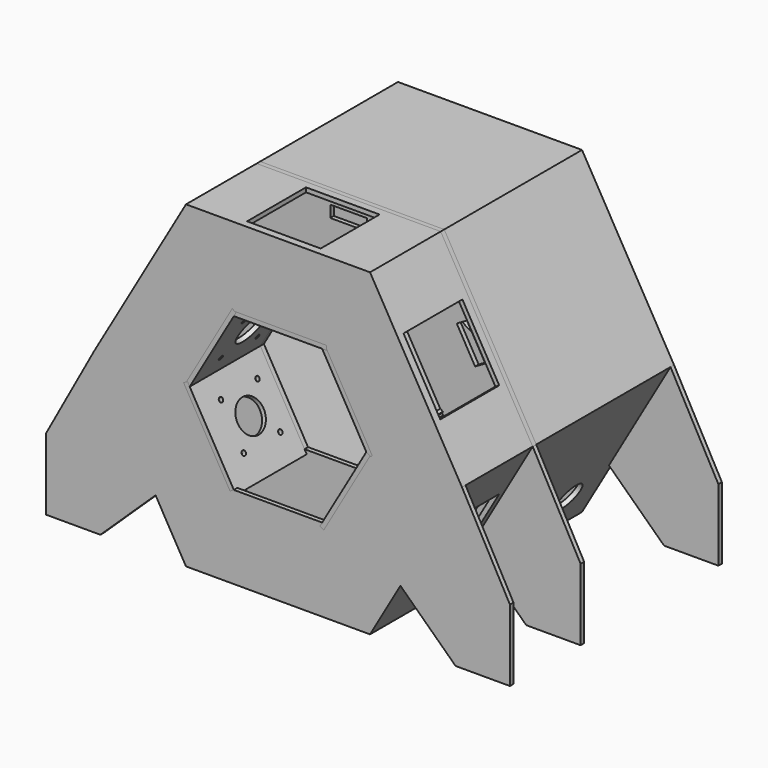
from build123d import *

# Parameters (mm, degrees)
F1_DEPTH  = 180
F2_T      = -3
F4_DEPTH  = 3
F6_D      = 50
F7_W      = 60
F7_H      = 3
F7_R      = 1.6
F7_R_2    = 11
F7_W_2    = 3
F7_H_2    = 60
F8_DEPTH  = 3
F10_COUNT = 6
F13_DEPTH = 3
F14_W     = 78
F14_H     = 51
F14_R     = 1.6
F14_W_2   = 80
F14_H_2   = 20
F15_DEPTH = 3
F17_D     = 20
F17_DEPTH = 3
F17_TIP   = 6.0086061903
F18_W     = 20
F18_H     = 20
F19_DEPTH = 3
F20_W     = 25
F20_H     = 8
F21_DEPTH = 3
F23_DEPTH = 3
F24_W     = 50
F24_H     = 50
F25_DEPTH = 3
F26_W     = 50
F26_H     = 50
F27_DEPTH = 3
F28_W     = 50
F28_H     = 50
F29_DEPTH = 3
F30_W     = 50
F30_H     = 50
F31_DEPTH = 3
F32_W     = 50
F32_H     = 50
F33_DEPTH = 3
F35_DEPTH = 3
F37_DEPTH = 3
F39_DEPTH = 3


with BuildPart() as f1:
    # F0 (on Front) → F1 (new body)
    with BuildSketch(Plane.XZ):
        Polygon((125, 0), (62.5, 108.2531754731), (-62.5, 108.2531754731), (-125, 0), (-62.5, -108.2531754731), (62.5, -108.2531754731), align=None)
    extrude(amount=F1_DEPTH)

    # F2
    f2_openings = [f1.faces().sort_by_distance(p)[0] for p in [
        (0, -180, 0),
    ]]
    offset(amount=F2_T, openings=f2_openings)

    # F3 (on face) → F4 (join)
    with BuildSketch(Plane.XZ.offset(180)):
        Polygon((60.7679491924, 105.2531754731), (-60.7679491924, 105.2531754731), (-121.5358983849, 0), (-60.7679491924, -105.2531754731), (60.7679491924, -105.2531754731), (121.5358983849, 0), align=None)
        Polygon((30, 51.9615242271), (60, 0), (30, -51.9615242271), (-30, -51.9615242271), (-60, 0), (-30, 51.9615242271), align=None, mode=Mode.SUBTRACT)
    extrude(amount=-F4_DEPTH)

    # F6 (through all)
    with Locations(Plane(origin=(0, 0, 0), x_dir=(-1, 0, 0), z_dir=(0, 1, 0))):
        with Locations((0, 0)):
            Hole(F6_D / 2)

    # F14 (on face) → F15 (cut, through all)
    with BuildSketch(Plane(origin=(-93.75, 0, 54.1265877365), x_dir=(0, -1, 0), z_dir=(-0.8660254038, 0, 0.5))):
        with Locations((57.1883003473, 16.5818184525)):
            Rectangle(F14_W, F14_H)
        with Locations((13.2883003473, -16.3181815475)):
            Circle(F14_R)
        with Locations((13.2883003473, 49.4818184525)):
            Circle(F14_R)
        with Locations((101.0883003473, 49.4818184525)):
            Circle(F14_R)
        with Locations((101.0883003473, -16.3181815475)):
            Circle(F14_R)
        with Locations((57.3729620934, -28.8003823906)):
            Rectangle(F14_W_2, F14_H_2)
    extrude(amount=-F15_DEPTH, mode=Mode.SUBTRACT)

    # F17
    with Locations(Plane(origin=(93.75, 0, -54.1265877365), x_dir=(0, 1, 0), z_dir=(0.8660254038, 0, -0.5))):
        with Locations((-30, -32.5)):
            Hole(F17_D / 2, depth=F17_DEPTH)
            with Locations((0, 0, -(F17_DEPTH + F17_TIP / 2))):  # 118° drill point
                Cone(0, F17_D / 2, F17_TIP, mode=Mode.SUBTRACT)

    # F18 (on face) → F19 (cut, through all)
    with BuildSketch(Plane(origin=(0, 0, 0), x_dir=(-1, 0, 0), z_dir=(0, 1, 0))):
        with Locations((-30.5, -93.2531754731)):
            Rectangle(F18_W, F18_H)
    extrude(amount=-F19_DEPTH, mode=Mode.SUBTRACT)

    # F22 (on face) → F23 (cut, through all)
    with BuildSketch(Plane(origin=(0, 0, -108.2531754731), x_dir=(1, 0, 0), z_dir=(0, 0, -1))):
        with BuildLine():
            Line((52.5, 10), (50.5, 10))
            ThreePointArc((50.5, 10), (52.5, 8), (54.5, 10))
            ThreePointArc((54.5, 10), (53.9142135624, 11.4142135624), (52.5, 12))
            Line((52.5, 12), (52.5, 10))
        make_face()
        with BuildLine():
            ThreePointArc((52.5, 12), (51.0857864376, 11.4142135624), (50.5, 10))
            Line((50.5, 10), (52.5, 10))
            Line((52.5, 10), (52.5, 12))
        make_face()
        with BuildLine():
            Line((-49.5, 12), (-49.5, 10))
            Line((-49.5, 10), (-47.5, 10))
            ThreePointArc((-47.5, 10), (-48.0857864376, 11.4142135624), (-49.5, 12))
        make_face()
        with BuildLine():
            Line((-47.5, 10), (-49.5, 10))
            Line((-49.5, 10), (-49.5, 12))
            ThreePointArc((-49.5, 12), (-50.9142135624, 8.5857864376), (-47.5, 10))
        make_face()
        with BuildLine():
            ThreePointArc((-47.5, 86), (-50.9142135624, 87.4142135624), (-49.5, 84))
            Line((-49.5, 84), (-49.5, 86))
            Line((-49.5, 86), (-47.5, 86))
        make_face()
        with BuildLine():
            Line((-49.5, 86), (-49.5, 84))
            ThreePointArc((-49.5, 84), (-48.0857864376, 84.5857864376), (-47.5, 86))
            Line((-47.5, 86), (-49.5, 86))
        make_face()
        with BuildLine():
            Line((52.5, 86), (52.5, 84))
            ThreePointArc((52.5, 84), (53.9142135624, 84.5857864376), (54.5, 86))
            ThreePointArc((54.5, 86), (52.5, 88), (50.5, 86))
            Line((50.5, 86), (52.5, 86))
        make_face()
        with BuildLine():
            ThreePointArc((50.5, 86), (51.0857864376, 84.5857864376), (52.5, 84))
            Line((52.5, 84), (52.5, 86))
            Line((52.5, 86), (50.5, 86))
        make_face()
    extrude(amount=-F23_DEPTH, mode=Mode.SUBTRACT)

    # F24 (on face) → F25 (cut, through all)
    with BuildSketch(Plane(origin=(-93.75, 0, -54.1265877365), x_dir=(0, -1, 0), z_dir=(-0.8660254038, 0, -0.5))):
        with Locations((150, 0)):
            Rectangle(F24_W, F24_H)
    extrude(amount=-F25_DEPTH, mode=Mode.SUBTRACT)

    # F26 (on face) → F27 (cut, through all)
    with BuildSketch(Plane(origin=(-93.75, 0, 54.1265877365), x_dir=(0, -1, 0), z_dir=(-0.8660254038, 0, 0.5))):
        with Locations((150, 0)):
            Rectangle(F26_W, F26_H)
    extrude(amount=-F27_DEPTH, mode=Mode.SUBTRACT)

    # F28 (on face) → F29 (cut, through all)
    with BuildSketch(Plane.XY.offset(108.2531754731)):
        with Locations((0, -150)):
            Rectangle(F28_W, F28_H)
    extrude(amount=-F29_DEPTH, mode=Mode.SUBTRACT)

    # F30 (on face) → F31 (cut, through all)
    with BuildSketch(Plane(origin=(93.75, 0, 54.1265877365), x_dir=(0, 1, 0), z_dir=(0.8660254038, 0, 0.5))):
        with Locations((-150, 0)):
            Rectangle(F30_W, F30_H)
    extrude(amount=-F31_DEPTH, mode=Mode.SUBTRACT)

    # F32 (on face) → F33 (cut, through all)
    with BuildSketch(Plane(origin=(93.75, 0, -54.1265877365), x_dir=(0, 1, 0), z_dir=(0.8660254038, 0, -0.5))):
        with Locations((-150, 0)):
            Rectangle(F32_W, F32_H)
    extrude(amount=-F33_DEPTH, mode=Mode.SUBTRACT)

    # F34 (on face) → F35 (join)
    with BuildSketch(Plane.XZ.offset(180)):
        Polygon((-120.6285208464, -108.2531754731), (-83.1755432282, -72.4420841277), (-125, 0), (-157.5307399034, -59.5309585333), (-157.5307399034, -108.2531754731), align=None)
        Polygon((125, 0), (83.1755432282, -72.4420841277), (120.6285208464, -108.2531754731), (157.5307399035, -108.2531754731), (157.5307399035, -59.5309585333), align=None)
    extrude(amount=-F35_DEPTH)

    # F36 (on face) → F37 (join)
    with BuildSketch(Plane(origin=(0, 0, 0), x_dir=(-1, 0, 0), z_dir=(0, 1, 0))):
        Polygon((-83.1755432282, -72.4420841277), (-125, 0), (-157.5307399035, -59.5309585333), (-157.5307399035, -108.2531754731), (-120.6285208464, -108.2531754731), align=None)
        Polygon((157.5307399034, -108.2531754731), (157.5307399034, -59.5309585333), (125, 0), (83.1755432282, -72.4420841277), (120.6285208464, -108.2531754731), align=None)
    extrude(amount=-F37_DEPTH)


with BuildPart() as f8:
    # F7 (on face) → F8 (new body)
    with BuildSketch(Plane(origin=(45, 0, 25.9807621135), x_dir=(0, -1, 0), z_dir=(-0.8660254038, 0, -0.5))):
        with Locations((147, 31.5)):
            Rectangle(F7_W, F7_H)
        Polygon((177, -30), (177, 30), (117, 30), (117, -30), (120, -30), align=None)
        with Locations((131.5, -15.5)):
            Circle(F7_R, mode=Mode.SUBTRACT)
        with Locations((162.5, -15.5)):
            Circle(F7_R, mode=Mode.SUBTRACT)
        with Locations((131.5, 15.5)):
            Circle(F7_R, mode=Mode.SUBTRACT)
        with Locations((147, 0)):
            Circle(F7_R_2, mode=Mode.SUBTRACT)
        with Locations((162.5, 15.5)):
            Circle(F7_R, mode=Mode.SUBTRACT)
        with Locations((178.5, 0)):
            Rectangle(F7_W_2, F7_H_2)
        Polygon((180, -30), (177, -30), (120, -30), (120, -33), (180, -33), align=None)
    extrude(amount=-F8_DEPTH)


with BuildPart() as f10_1:
    # F10: instance of F8
    add(f8.part.rotate(Axis((0, -211.8996232748, 0), (0, -1, 0)), 1 * 360 / F10_COUNT))


with BuildPart() as f10_2:
    # F10: instance of F8
    add(f8.part.rotate(Axis((0, -211.8996232748, 0), (0, -1, 0)), 2 * 360 / F10_COUNT))


with BuildPart() as f10_3:
    # F10: instance of F8
    add(f8.part.rotate(Axis((0, -211.8996232748, 0), (0, -1, 0)), 3 * 360 / F10_COUNT))


with BuildPart() as f10_4:
    # F10: instance of F8
    add(f8.part.rotate(Axis((0, -211.8996232748, 0), (0, -1, 0)), 4 * 360 / F10_COUNT))


with BuildPart() as f10_5:
    # F10: instance of F8
    add(f8.part.rotate(Axis((0, -211.8996232748, 0), (0, -1, 0)), 5 * 360 / F10_COUNT))


with BuildPart() as f13:
    # F12 (on face) → F13 (new body)
    with BuildSketch(Plane(origin=(0, -117, 0), x_dir=(-1, 0, 0), z_dir=(0, 1, 0))):
        Polygon((62.5, 108.2531754731), (-62.5, 108.2531754731), (-125, 0), (-62.5, -108.2531754731), (62.5, -108.2531754731), (125, 0), align=None)
        Polygon((-30, -51.9615242271), (-60, 0), (-62.5980762114, 1.5), (-31.0980762114, 56.0596004384), (-28.5, 54.5596004384), (-30, 51.9615242271), (30, 51.9615242271), (60, 0), (30, -51.9615242271), align=None, mode=Mode.SUBTRACT)
    extrude(amount=-F13_DEPTH)

    # F20 (on face) → F21 (cut, through all)
    with BuildSketch(Plane(origin=(0, -117, 0), x_dir=(-1, 0, 0), z_dir=(0, 1, 0))):
        with Locations((0, 95.9615242271)):
            Rectangle(F20_W, F20_H)
        Polygon((-73.3910161514, 56.8060796608), (-80.3192193817, 60.8060796608), (-92.8192193817, 39.1554445662), (-85.8910161514, 35.1554445662), align=None)
        Polygon((-85.8910161514, -35.1554445662), (-92.8192193817, -39.1554445662), (-80.3192193817, -60.8060796608), (-73.3910161514, -56.8060796608), align=None)
        with Locations((0, -95.9615242271)):
            Rectangle(F20_W, F20_H)
        Polygon((73.3910161514, -56.8060796608), (80.3192193817, -60.8060796608), (92.8192193817, -39.1554445662), (85.8910161514, -35.1554445662), align=None)
        Polygon((85.8910161514, 35.1554445662), (92.8192193817, 39.1554445662), (80.3192193817, 60.8060796608), (73.3910161514, 56.8060796608), align=None)
    extrude(amount=-F21_DEPTH, mode=Mode.SUBTRACT)

    # F38 (on face) → F39 (join)
    with BuildSketch(Plane(origin=(0, -117, 0), x_dir=(-1, 0, 0), z_dir=(0, 1, 0))):
        Polygon((157.5307399034, -59.5309585333), (125, 0), (83.1755432282, -72.4420841277), (120.6285208464, -108.2531754731), (157.5307399034, -108.2531754731), align=None)
        Polygon((-125, 0), (-157.5307399035, -59.5309585333), (-157.5307399035, -108.2531754731), (-120.6285208464, -108.2531754731), (-83.1755432282, -72.4420841277), align=None)
    extrude(amount=-F39_DEPTH)


solid = Compound([f1.part, f8.part, f10_1.part, f10_2.part, f10_3.part, f10_5.part, f13.part])
